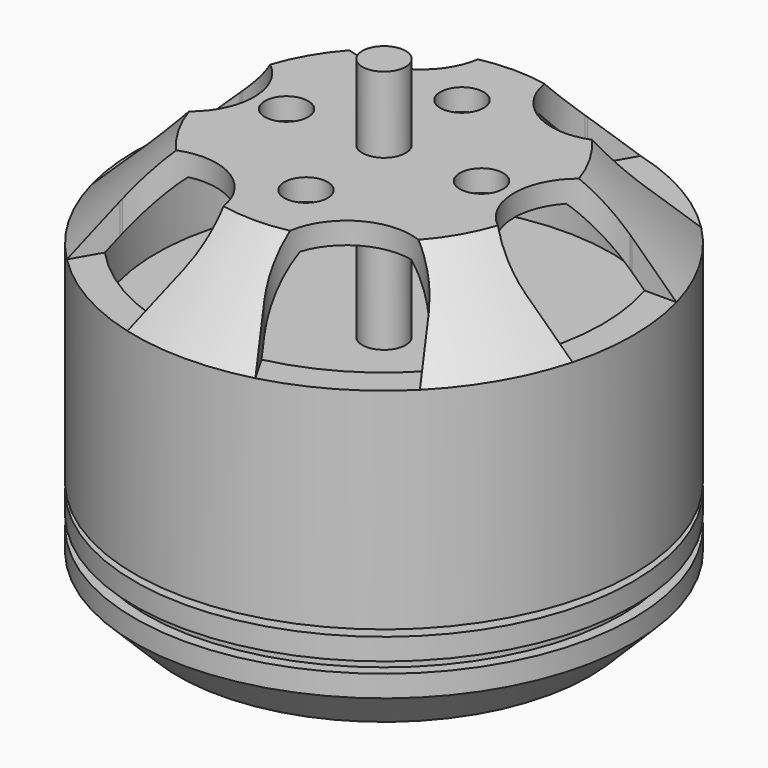
from build123d import *

# Parameters (mm, degrees)
F2_R     = 1
F3_DEPTH = 4
F4_R     = 1
F5_DEPTH = 3


with BuildPart() as f1:
    # F0 (on Front) → F1 (revolve)
    with BuildSketch(Plane.XZ):
        Polygon((1, 22), (0, 22), (0, 0), (0, -1.8), (1, -1.8), (1, 0), (9.5, 0), (11.5, 2), (11.5, 3), (11, 3), (11, 3.5), (11.5, 3.5), (11.5, 4.5), (9.5, 4.5), (9.5, 4.8), (11.5, 4.8), (11.5, 14.5), (7.5, 18.5), (1, 18.5), align=None)
        Polygon((2, 16.5), (2, 17.5), (7.085786, 17.5), (10.5, 14.085786), (10.5, 10.695516), (1, 10.695516), (1, 16.5), align=None, mode=Mode.SUBTRACT)
    revolve(axis=Axis((0, 0, 11), (0, 0, -1)))

    # F2 (on face) → F3 (cut)
    with BuildSketch(Plane.XY.offset(18.5)):
        with Locations((4.5, 0)):
            Circle(F2_R)
        with Locations((0, 4.5)):
            Circle(F2_R)
        with Locations((-4.5, 0)):
            Circle(F2_R)
        with Locations((0, -4.5)):
            Circle(F2_R)
        with BuildLine():
            Line((-8.947627, -2.999543), (-9.052373, -2.999543))
            ThreePointArc((-9.052373, -2.999543), (-9, -3), (-8.947627, -2.999543))
        make_face()
        with BuildLine():
            Line((-15.532091, -2.999543), (-9.052373, -2.999543))
            Line((-9.052373, -2.999543), (-8.947627, -2.999543))
            ThreePointArc((-8.947627, -2.999543), (-6, 0), (-8.947627, 2.999543))
            Line((-8.947627, 2.999543), (-9.052373, 2.999543))
            Line((-9.052373, 2.999543), (-15.532091, 2.999543))
            Line((-15.532091, 2.999543), (-15.532091, -2.999543))
        make_face()
        with BuildLine():
            Line((-9.052373, 2.999543), (-8.947627, 2.999543))
            ThreePointArc((-8.947627, 2.999543), (-9, 3), (-9.052373, 2.999543))
        make_face()
        with BuildLine():
            Line((-10.363726, -11.951414), (-5.168365, -14.950957))
            Line((-5.168365, -14.950957), (-1.928506, -9.339356))
            Line((-1.928506, -9.339356), (-1.876133, -9.248644))
            ThreePointArc((-1.876133, -9.248644), (-3, -5.196152), (-7.071494, -6.249101))
            Line((-7.071494, -6.249101), (-7.123867, -6.339813))
            Line((-7.123867, -6.339813), (-10.363726, -11.951414))
        make_face()
        with BuildLine():
            Line((-1.876133, -9.248644), (-1.928506, -9.339356))
            ThreePointArc((-1.928506, -9.339356), (-1.901924, -9.294229), (-1.876133, -9.248644))
        make_face()
        with BuildLine():
            ThreePointArc((-7.071494, -6.249101), (-7.098076, -6.294229), (-7.123867, -6.339813))
            Line((-7.123867, -6.339813), (-7.071494, -6.249101))
        make_face()
        with BuildLine():
            Line((5.168365, -14.950957), (10.363726, -11.951414))
            Line((10.363726, -11.951414), (7.123867, -6.339813))
            Line((7.123867, -6.339813), (7.071494, -6.249101))
            ThreePointArc((7.071494, -6.249101), (3, -5.196152), (1.876133, -9.248644))
            Line((1.876133, -9.248644), (1.928506, -9.339356))
            Line((1.928506, -9.339356), (5.168365, -14.950957))
        make_face()
        with BuildLine():
            Line((7.071494, -6.249101), (7.123867, -6.339813))
            ThreePointArc((7.123867, -6.339813), (7.098076, -6.294229), (7.071494, -6.249101))
        make_face()
        with BuildLine():
            ThreePointArc((1.876133, -9.248644), (1.901924, -9.294229), (1.928506, -9.339356))
            Line((1.928506, -9.339356), (1.876133, -9.248644))
        make_face()
        with BuildLine():
            Line((15.532091, -2.999543), (15.532091, 2.999543))
            Line((15.532091, 2.999543), (9.052373, 2.999543))
            Line((9.052373, 2.999543), (8.947627, 2.999543))
            ThreePointArc((8.947627, 2.999543), (6, 0), (8.947627, -2.999543))
            Line((8.947627, -2.999543), (9.052373, -2.999543))
            Line((9.052373, -2.999543), (15.532091, -2.999543))
        make_face()
        with BuildLine():
            Line((8.947627, 2.999543), (9.052373, 2.999543))
            ThreePointArc((9.052373, 2.999543), (9, 3), (8.947627, 2.999543))
        make_face()
        with BuildLine():
            ThreePointArc((8.947627, -2.999543), (9, -3), (9.052373, -2.999543))
            Line((9.052373, -2.999543), (8.947627, -2.999543))
        make_face()
        with BuildLine():
            Line((10.363726, 11.951414), (5.168365, 14.950957))
            Line((5.168365, 14.950957), (1.928506, 9.339356))
            Line((1.928506, 9.339356), (1.876133, 9.248644))
            ThreePointArc((1.876133, 9.248644), (3, 5.196152), (7.071494, 6.249101))
            Line((7.071494, 6.249101), (7.123867, 6.339813))
            Line((7.123867, 6.339813), (10.363726, 11.951414))
        make_face()
        with BuildLine():
            Line((1.876133, 9.248644), (1.928506, 9.339356))
            ThreePointArc((1.928506, 9.339356), (1.901924, 9.294229), (1.876133, 9.248644))
        make_face()
        with BuildLine():
            ThreePointArc((7.071494, 6.249101), (7.098076, 6.294229), (7.123867, 6.339813))
            Line((7.123867, 6.339813), (7.071494, 6.249101))
        make_face()
        with BuildLine():
            Line((-5.168365, 14.950957), (-10.363726, 11.951414))
            Line((-10.363726, 11.951414), (-7.123867, 6.339813))
            Line((-7.123867, 6.339813), (-7.071494, 6.249101))
            ThreePointArc((-7.071494, 6.249101), (-3, 5.196152), (-1.876133, 9.248644))
            Line((-1.876133, 9.248644), (-1.928506, 9.339356))
            Line((-1.928506, 9.339356), (-5.168365, 14.950957))
        make_face()
        with BuildLine():
            Line((-7.071494, 6.249101), (-7.123867, 6.339813))
            ThreePointArc((-7.123867, 6.339813), (-7.098076, 6.294229), (-7.071494, 6.249101))
        make_face()
        with BuildLine():
            ThreePointArc((-1.876133, 9.248644), (-1.901924, 9.294229), (-1.928506, 9.339356))
            Line((-1.928506, 9.339356), (-1.876133, 9.248644))
        make_face()
    extrude(amount=-F3_DEPTH, mode=Mode.SUBTRACT)

    # F4 (on face) → F5 (cut)
    with BuildSketch(Plane(origin=(0, 0, 0), x_dir=(1, 0, 0), z_dir=(0, 0, -1))):
        with Locations((6, 0)):
            Circle(F4_R)
        with Locations((-6, 0)):
            Circle(F4_R)
        with Locations((0, -8)):
            Circle(F4_R)
        with Locations((0, 8)):
            Circle(F4_R)
    extrude(amount=-F5_DEPTH, mode=Mode.SUBTRACT)


solid = f1.part
